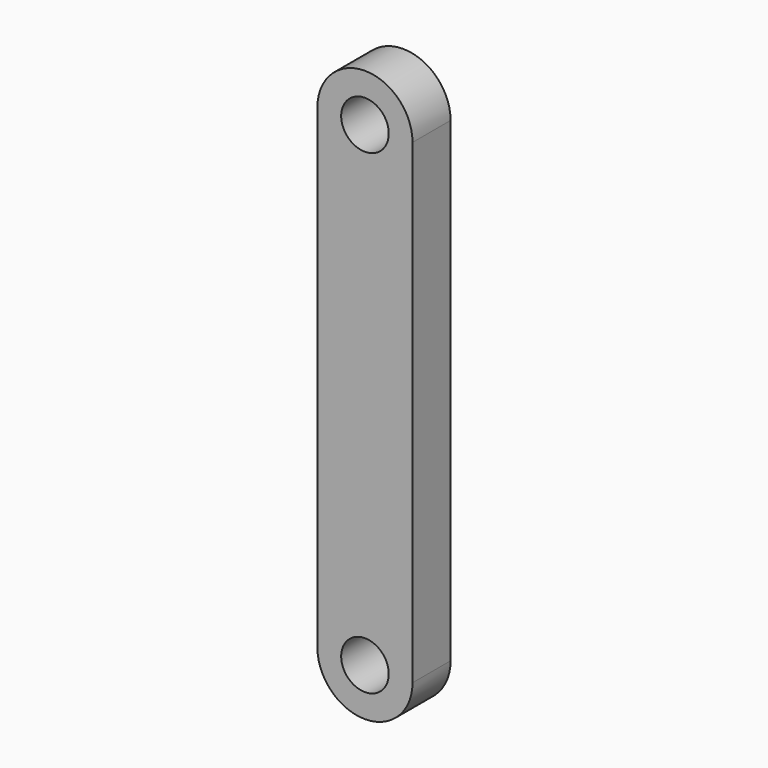
from build123d import *

# Parameters (mm, degrees)
F0_R     = 6.35
F1_DEPTH = 6.35


with BuildPart() as f1:
    # F0 (on Front) → F1 (new body, symmetric)
    with BuildSketch(Plane.XZ):
        with BuildLine():
            ThreePointArc((-12.7, 114.563232), (0, 101.863232), (12.7, 114.563232))
            ThreePointArc((12.7, 114.563232), (0, 127.263232), (-12.7, 114.563232))
        make_face()
        with Locations((0, 114.563232)):
            Circle(F0_R, mode=Mode.SUBTRACT)
        with BuildLine():
            Line((12.7, -12.436768), (12.7, 114.563232))
            ThreePointArc((12.7, 114.563232), (0, 101.863232), (-12.7, 114.563232))
            Line((-12.7, 114.563232), (-12.7, -12.436768))
            ThreePointArc((-12.7, -12.436768), (0, 0.263232), (12.7, -12.436768))
        make_face()
        with BuildLine():
            ThreePointArc((-12.7, -12.436768), (0, -25.136768), (12.7, -12.436768))
            ThreePointArc((12.7, -12.436768), (0, 0.263232), (-12.7, -12.436768))
        make_face()
        with Locations((0, -12.436768)):
            Circle(F0_R, mode=Mode.SUBTRACT)
    extrude(amount=F1_DEPTH, both=True)


solid = f1.part
